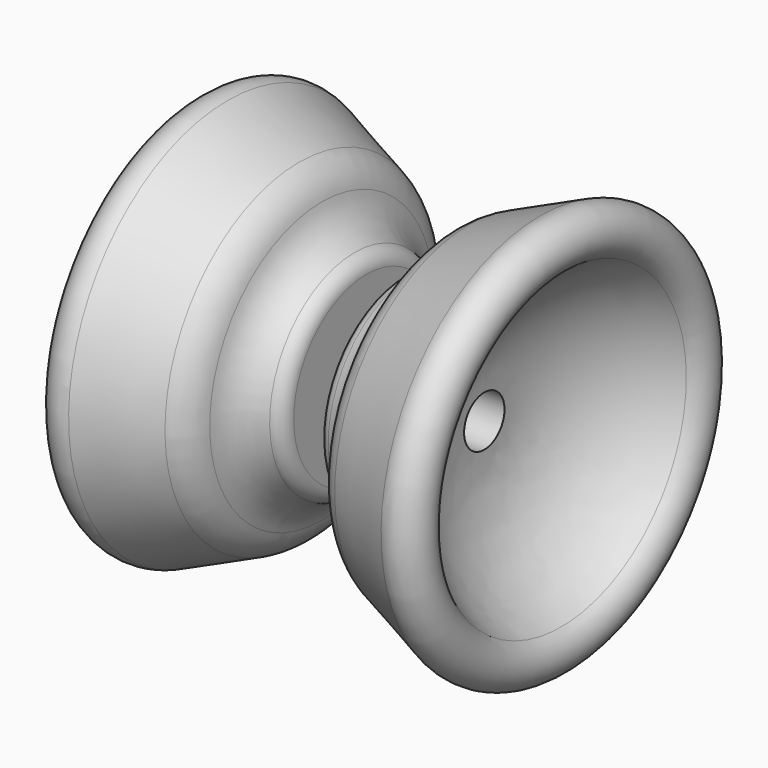
from build123d import *


with BuildPart() as f1:
    # F0 (on Front) → F1 (revolve)
    with BuildSketch(Plane.XZ):
        with BuildLine():
            Line((2.2, 11.437496), (2.2, 3.175))
            Line((2.2, 3.175), (12.610472, 3.175))
            ThreePointArc((12.610472, 3.175), (15.213045, 12.724896), (22.301051, 19.633881))
            ThreePointArc((22.301051, 19.633881), (23.534601, 23.587239), (19.643849, 25.00595))
            Line((19.643849, 25.00595), (10.670768, 21.083082))
            ThreePointArc((10.670768, 21.083082), (8.82706, 19.696105), (7.80236, 17.628993))
            ThreePointArc((7.80236, 17.628993), (6.333888, 14.928142), (3.683898, 13.369759))
            ThreePointArc((3.683898, 13.369759), (2.613777, 12.65565), (2.2, 11.437496))
        make_face()
    revolve(axis=Axis((28.704287, 0, 0), (1, 0, 0)))


with BuildPart() as f2_1:
    # F2: instance of F1
    add(f1.part.mirror(Plane.YZ))


solid = Compound([f1.part, f2_1.part])
